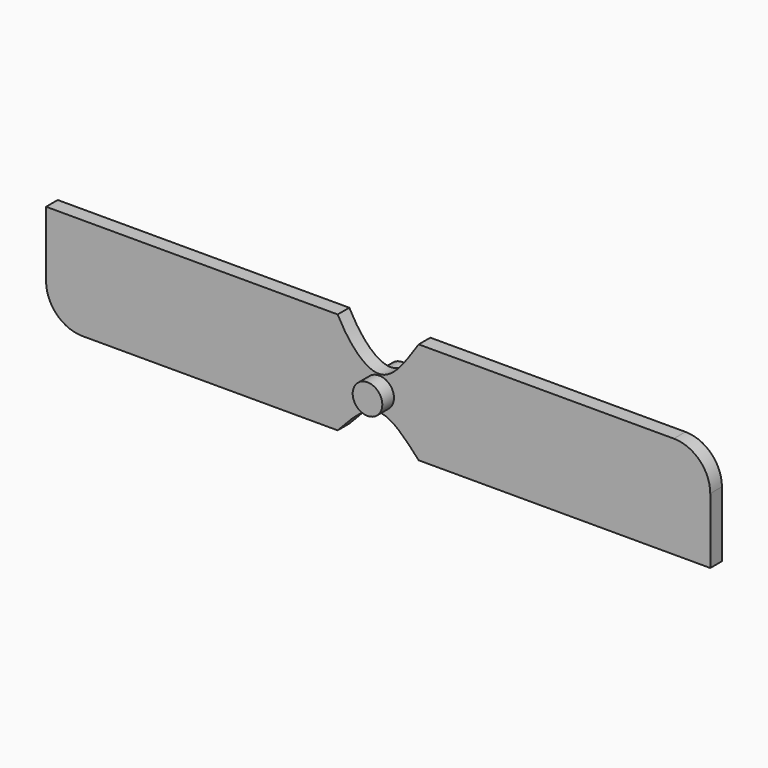
from build123d import *

# Parameters (mm, degrees)
F0_R     = 1.016
F1_DEPTH = 1
F2_DEPTH = 2
F3_DEPTH = 1


with BuildPart() as f1:
    # F0 (on Front) → F1 (new body)
    with BuildSketch(Plane.XZ):
        with BuildLine():
            Line((22.5296217646, 7), (5.0296217646, 7))
            Line((5.0296217646, 7), (5.0296217646, 0))
            Line((5.0296217646, 0), (25.0296217646, 0))
            Line((25.0296217646, 0), (25.0296217646, 4.5))
            ThreePointArc((25.0296217646, 4.5), (24.2973887176, 6.267766953), (22.5296217646, 7))
        make_face()
        with BuildLine():
            Line((-0.5277903524, 7), (-20.5277903524, 7))
            Line((-20.5277903524, 7), (-20.5277903524, 2.5))
            ThreePointArc((-20.5277903524, 2.5), (-19.7955573054, 0.732233047), (-18.0277903524, 0))
            Line((-18.0277903524, 0), (-0.5277903524, 0))
            Line((-0.5277903524, 0), (-0.5277903524, 7))
        make_face()
        with BuildLine():
            add(Edge.make_bspline(
                [(-0.5277903524, 7), (0.2936347767, 5.4160328527), (2.4654319937, 3.2330255819), (4.0015688672, 5.4588735962), (5.0296217646, 7)],
                knots=[0, 0, 0, 0, 0.503153471, 1, 1, 1, 1], degree=3))
            Line((-0.5277903524, 7), (-0.5277903524, 0))
            add(Edge.make_bspline(
                [(-0.5277903524, 0), (0.3996940581, 1.0133841191), (2.2540528119, 3.0394852076), (4.104635181, 1.0129391145), (5.0296217646, 0)],
                knots=[0, 0, 0, 0, 0.5001646338, 1, 1, 1, 1], degree=3))
            Line((5.0296217646, 0), (5.0296217646, 7))
        make_face()
        with Locations((2.3182034492, 3.2204561867)):
            Circle(F0_R, mode=Mode.SUBTRACT)
    extrude(amount=F1_DEPTH)

    # F0 (on Front) → F2 (join)
    with BuildSketch(Plane.XZ):
        with Locations((2.3182034492, 3.2204561867)):
            Circle(F0_R)
    extrude(amount=F2_DEPTH)

    # F0 (on Front) → F3 (join)
    with BuildSketch(Plane.XZ):
        with Locations((2.3182034492, 3.2204561867)):
            Circle(F0_R)
    extrude(amount=-F3_DEPTH)


solid = f1.part
